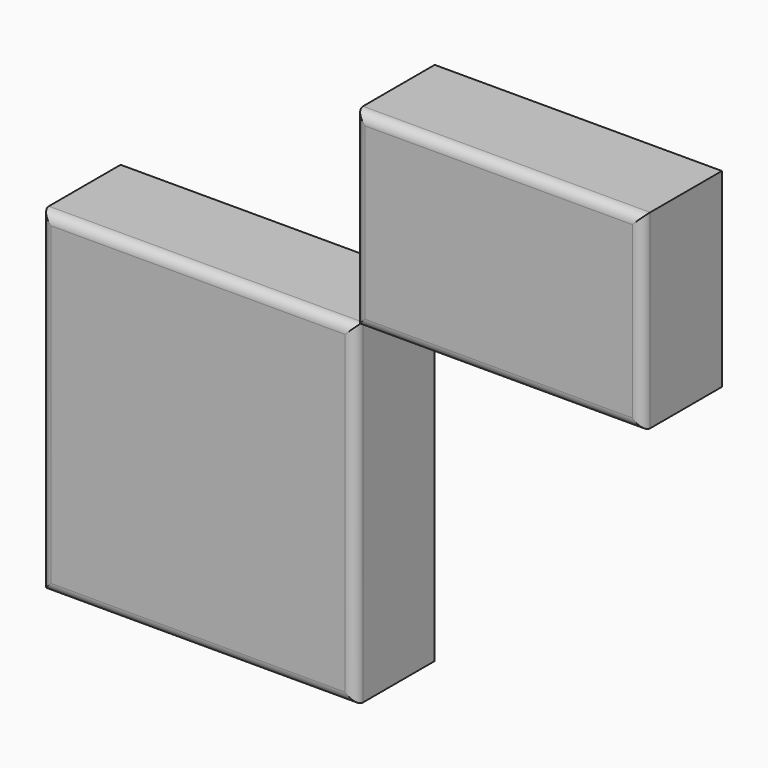
from build123d import *

# Parameters (mm, degrees)
F0_W     = 63.0669742823
F0_H     = 67.2161057591
F1_DEPTH = 20
F0_W_2   = 57.6730966568
F0_H_2   = 38.1721183658
F2_R     = 2
F2_2_R   = 2


with BuildPart() as f1:
    # F0 (on Front) → F1 (new body)
    with BuildSketch(Plane.XZ):
        with Locations((-21.7830315232, -3.941681236)):
            Rectangle(F0_W, F0_H)
    extrude(amount=F1_DEPTH)

    # F2
    f2_edges = [f1.edges().sort_by_distance(p)[0] for p in [
        (-21.783032, -20, -37.549734),
        (-53.316519, -20, -3.941681),
        (-21.783032, -20, 29.666372),
        (9.750456, -20, -3.941681),
    ]]
    fillet(f2_edges, radius=F2_R)


with BuildPart() as f1b:
    # F0 (on Front) → F1, piece 2 (new body)
    with BuildSketch(Plane.XZ):
        with Locations((38.5870039463, 48.7524308264)):
            Rectangle(F0_W_2, F0_H_2)
    extrude(amount=F1_DEPTH)

    # F2#2
    f2_2_edges = [f1b.edges().sort_by_distance(p)[0] for p in [
        (38.587004, -20, 29.666372),
        (38.587004, -20, 67.83849),
        (67.423552, -20, 48.752431),
        (9.750456, -20, 48.752431),
    ]]
    fillet(f2_2_edges, radius=F2_2_R)


solid = Compound([f1.part, f1b.part])
